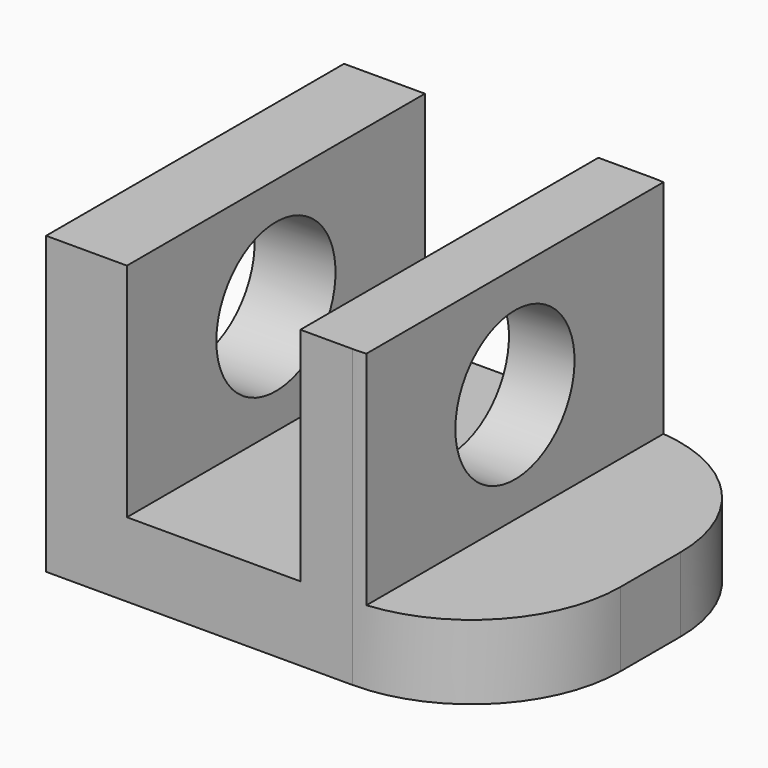
from build123d import *

# Parameters (mm, degrees)
F1_DEPTH = 50
F2_R     = 10
F3_DEPTH = 61.142308
F4_R     = 20


with BuildPart() as f1:
    # F0 (on Front) → F1 (new body)
    with BuildSketch(Plane.XZ):
        Polygon((0, 39.717391), (0, 0), (61.141308, 0), (61.141308, 9.978262), (42.945653, 9.978262), (42.945653, 39.717391), (34.141306, 39.717391), (34.141306, 9.978262), (10.858696, 9.978262), (10.858696, 39.717391), align=None)
    extrude(amount=F1_DEPTH)

    # F2 (on face) → F3 (cut, through all)
    with BuildSketch(Plane(origin=(0, 0, 0), x_dir=(0, -1, 0), z_dir=(-1, 0, 0))):
        with Locations((25, 24.717391)):
            Circle(F2_R)
    extrude(amount=-F3_DEPTH, mode=Mode.SUBTRACT)

    # F4
    f4_edges = [f1.edges().sort_by_distance(p)[0] for p in [
        (61.141308, 0, 4.989131),
        (61.141308, -50, 4.989131),
    ]]
    fillet(f4_edges, radius=F4_R)


solid = f1.part
